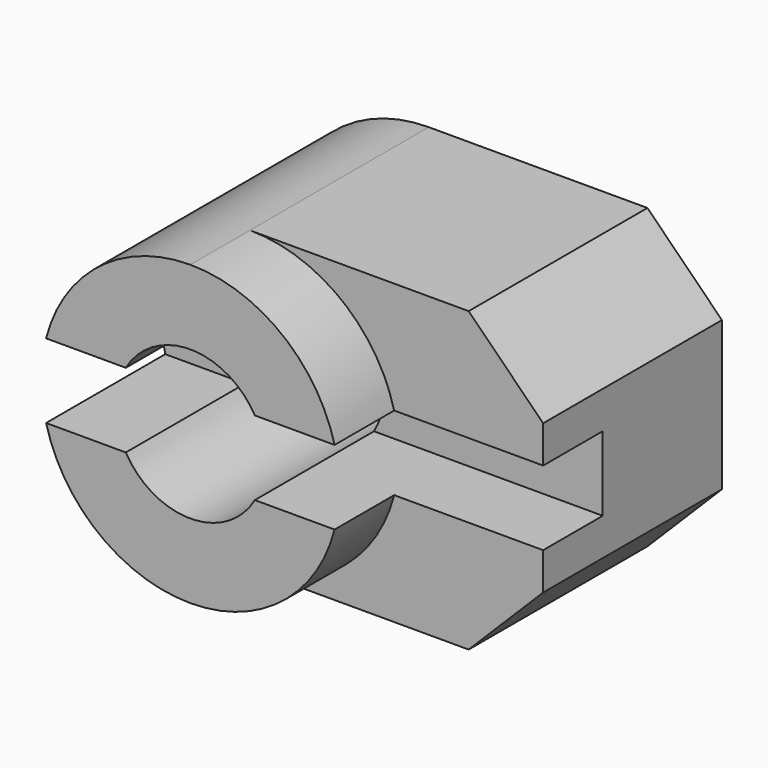
from build123d import *

# Parameters (mm, degrees)
F1_DEPTH = 20
F2_DEPTH = 15
F3_DEPTH = 10


with BuildPart() as f1:
    # F0 (on Front) → F1 (new body)
    with BuildSketch(Plane.XZ):
        with BuildLine():
            ThreePointArc((-4.3301270189, 2.5), (0, 5), (4.3301270189, 2.5))
            Line((4.3301270189, 2.5), (9.6824583655, 2.5))
            ThreePointArc((9.6824583655, 2.5), (6.123724357, 7.9056941504), (0, 10))
            ThreePointArc((0, 10), (-6.123724357, 7.9056941504), (-9.6824583655, 2.5))
            Line((-9.6824583655, 2.5), (-4.3301270189, 2.5))
        make_face()
    extrude(amount=F1_DEPTH)

    # F0 (on Front) → F2 (join)
    with BuildSketch(Plane.XZ):
        with BuildLine():
            ThreePointArc((0, 10), (6.123724357, 7.9056941504), (9.6824583655, 2.5))
            Line((9.6824583655, 2.5), (19.6824583655, 2.5))
            Line((19.6824583655, 2.5), (19.6824583655, 5))
            Line((19.6824583655, 5), (14.6824583655, 10))
            Line((14.6824583655, 10), (0, 10))
        make_face()
    extrude(amount=F2_DEPTH)



with BuildPart() as f1b:
    # F0 (on Front) → F1, piece 2 (new body)
    with BuildSketch(Plane.XZ):
        with BuildLine():
            Line((9.6824583655, -2.5), (4.3301270189, -2.5))
            ThreePointArc((4.3301270189, -2.5), (0, -5), (-4.3301270189, -2.5))
            Line((-4.3301270189, -2.5), (-9.6824583655, -2.5))
            ThreePointArc((-9.6824583655, -2.5), (-6.123724357, -7.9056941504), (0, -10))
            ThreePointArc((0, -10), (6.123724357, -7.9056941504), (9.6824583655, -2.5))
        make_face()
    extrude(amount=F1_DEPTH)

    # F0 (on Front) → F2, piece 2 (join)
    with BuildSketch(Plane.XZ):
        with BuildLine():
            Line((19.6824583655, -2.5), (9.6824583655, -2.5))
            ThreePointArc((9.6824583655, -2.5), (6.123724357, -7.9056941504), (0, -10))
            Line((0, -10), (14.6824583655, -10))
            Line((14.6824583655, -10), (19.6824583655, -5))
            Line((19.6824583655, -5), (19.6824583655, -2.5))
        make_face()
    extrude(amount=F2_DEPTH)


with BuildPart() as f1_1:
    add(f1.part)

    add(f1b.part)  # F3 merges F1b
    # F0 (on Front) → F3 (join)
    with BuildSketch(Plane.XZ):
        with BuildLine():
            ThreePointArc((4.3301270189, 2.5), (4.8296291314, 1.2940952255), (5, 0))
            ThreePointArc((5, 0), (4.8296291314, -1.2940952255), (4.3301270189, -2.5))
            Line((4.3301270189, -2.5), (9.6824583655, -2.5))
            Line((9.6824583655, -2.5), (19.6824583655, -2.5))
            Line((19.6824583655, -2.5), (19.6824583655, 2.5))
            Line((19.6824583655, 2.5), (9.6824583655, 2.5))
            Line((9.6824583655, 2.5), (4.3301270189, 2.5))
        make_face()
        with BuildLine():
            ThreePointArc((-4.3301270189, -2.5), (-5, 0), (-4.3301270189, 2.5))
            Line((-4.3301270189, 2.5), (-9.6824583655, 2.5))
            ThreePointArc((-9.6824583655, 2.5), (-10, 0), (-9.6824583655, -2.5))
            Line((-9.6824583655, -2.5), (-4.3301270189, -2.5))
        make_face()
    extrude(amount=F3_DEPTH)


solid = f1_1.part
